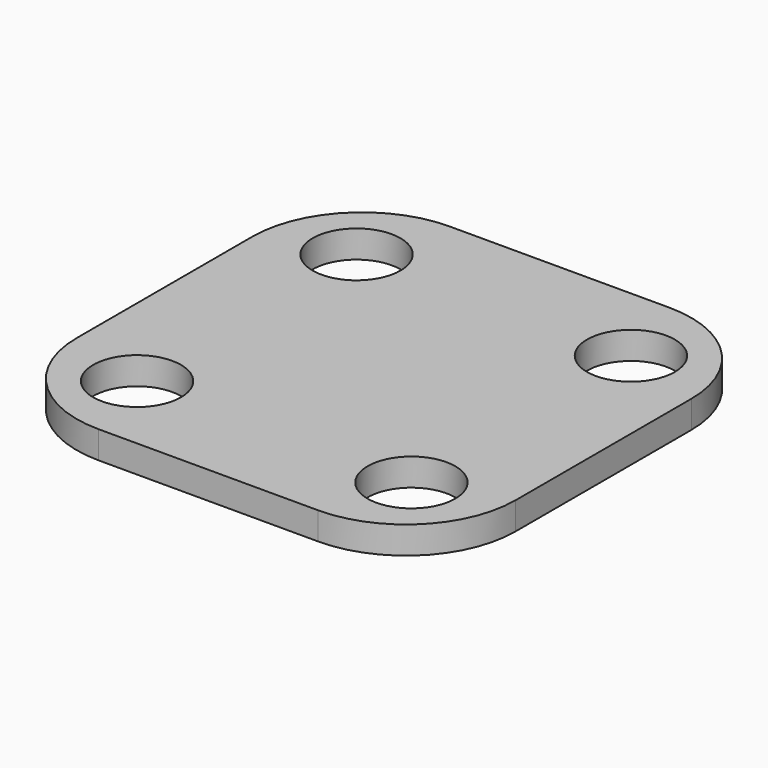
from build123d import *

# Parameters (mm, degrees)
CYLINDER022_R       = 1.6
CYLINDER022_DEPTH   = 20
ARRAY001007_X_COUNT = 2
ARRAY001007_X_PITCH = 10
ARRAY001007_Y_COUNT = 2
ARRAY001007_Y_PITCH = 10
BOX008_W            = 16
BOX008_H            = 16
BOX008_DEPTH        = 1
FILLET003_R         = 4


with BuildPart() as rod_holder_hole_array001:
    # Cylinder022 → Cylinder022 (new body)
    with BuildSketch(Plane(origin=(3, 3, -6), x_dir=(1, 0, 0), z_dir=(0, 0, 1))):
        Circle(CYLINDER022_R)
    extrude(amount=CYLINDER022_DEPTH)

    # Array001007 X: rod holder hole array001 ×2


with BuildPart() as rod_holder_hole_array001_1:
    add(rod_holder_hole_array001.part)
    with Locations(*[(i * ARRAY001007_X_PITCH, 0, 0) for i in range(1, ARRAY001007_X_COUNT)]):
        add(rod_holder_hole_array001.part)

    # Array001007 Y: rod holder hole array001 ×2


with BuildPart() as rod_holder_hole_array001_2:
    add(rod_holder_hole_array001_1.part)
    with Locations(*[(0, i * ARRAY001007_Y_PITCH, 0) for i in range(1, ARRAY001007_Y_COUNT)]):
        add(rod_holder_hole_array001_1.part)


with BuildPart() as rod_cover_fillet:
    # Box008 → Box008 (new body)
    with BuildSketch(Plane.XY):
        with Locations((8, 8)):
            Rectangle(BOX008_W, BOX008_H)
    extrude(amount=BOX008_DEPTH)

    # Cut006: cut rod holder hole array001
    add(rod_holder_hole_array001_2.part, mode=Mode.SUBTRACT)

    # Fillet003
    fillet003_edges = [rod_cover_fillet.edges().sort_by_distance(p)[0] for p in [
        (0, 0, 0.5),
        (0, 16, 0.5),
        (16, 0, 0.5),
        (16, 16, 0.5),
    ]]
    fillet(fillet003_edges, radius=FILLET003_R)


solid = rod_cover_fillet.part
